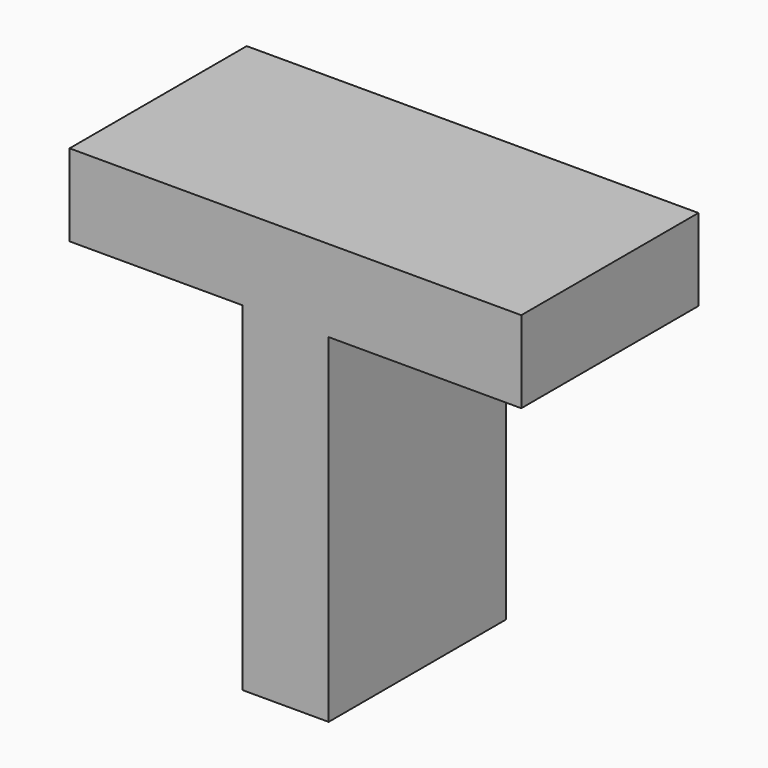
from build123d import *

# Parameters (mm, degrees)
F0_W     = 9.9059981294
F0_H     = 38.8620011508
F1_DEPTH = 25.4


with BuildPart() as f1:
    # F0 (on Front) → F1 (new body)
    with BuildSketch(Plane.XZ):
        with Locations((-7.4295008089, -7.1754995733)):
            Rectangle(F0_W, F0_H)
        Polygon((-32.1944989264, 12.2555010021), (-12.3824998736, 12.2555010021), (-2.4765017442, 12.2555010021), (19.6214988828, 12.2555010021), (19.6214988828, 21.6534994543), (-32.1944989264, 21.6534994543), align=None)
    extrude(amount=F1_DEPTH)


solid = f1.part
